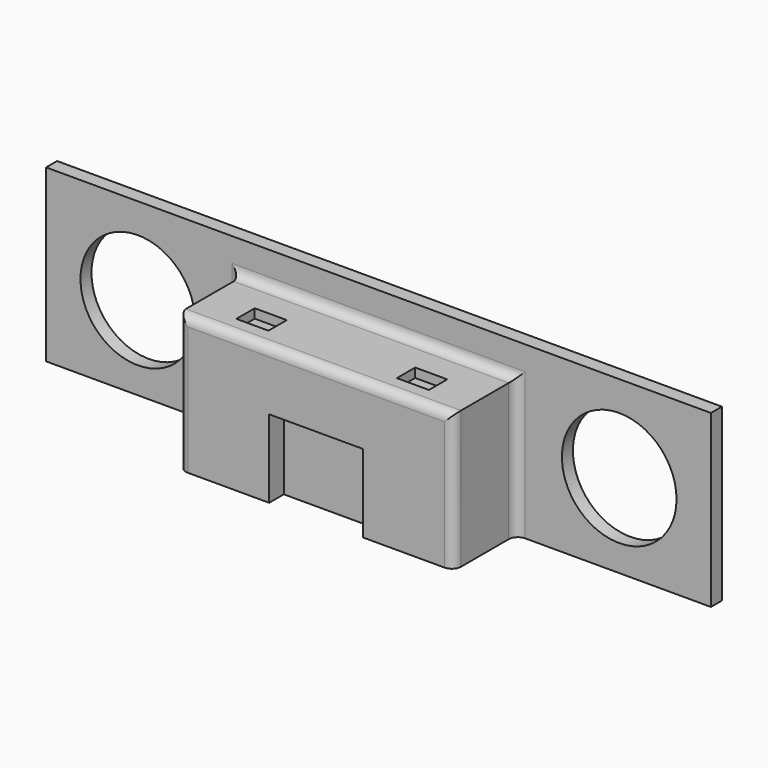
from build123d import *

# Parameters (mm, degrees)
F0_W     = 145
F0_H     = 37.25
F0_R     = 12.5
F1_DEPTH = 3
F2_W     = 60
F2_H     = 30
F3_DEPTH = 17
F4_W     = 7
F4_H     = 5
F5_DEPTH = 2
F6_R     = 2
F7_W     = 20.5
F7_H     = 17
F8_DEPTH = 4


with BuildPart() as f1:
    # F0 (on Front) → F1 (new body)
    with BuildSketch(Plane.XZ):
        Rectangle(F0_W, F0_H)
        with Locations((-52.5, -0.375)):
            Circle(F0_R, mode=Mode.SUBTRACT)
        with Locations((52.5, -0.375)):
            Circle(F0_R, mode=Mode.SUBTRACT)
    extrude(amount=F1_DEPTH)

    # F2 (on face) → F3 (join)
    with BuildSketch(Plane.XZ.offset(3)):
        with Locations((0, -3.625)):
            Rectangle(F2_W, F2_H)
    extrude(amount=F3_DEPTH)

    # F4 (on face) → F5 (cut)
    with BuildSketch(Plane.XY.offset(11.375)):
        with Locations((-17.5, -13)):
            Rectangle(F4_W, F4_H)
        with Locations((17.5, -13)):
            Rectangle(F4_W, F4_H)
    extrude(amount=-F5_DEPTH, mode=Mode.SUBTRACT)

    # F6
    f6_edges = [f1.edges().sort_by_distance(p)[0] for p in [
        (0, -3, 11.375),
        (30, -3, -3.625),
        (-30, -3, -3.625),
        (-30, -20, -3.625),
        (0, -20, 11.375),
        (30, -20, -3.625),
    ]]
    fillet(f6_edges, radius=F6_R)

    # F7 (on face) → F8 (cut)
    with BuildSketch(Plane.XZ.offset(20)):
        with Locations((0, -10.125)):
            Rectangle(F7_W, F7_H)
    extrude(amount=-F8_DEPTH, mode=Mode.SUBTRACT)


solid = f1.part
